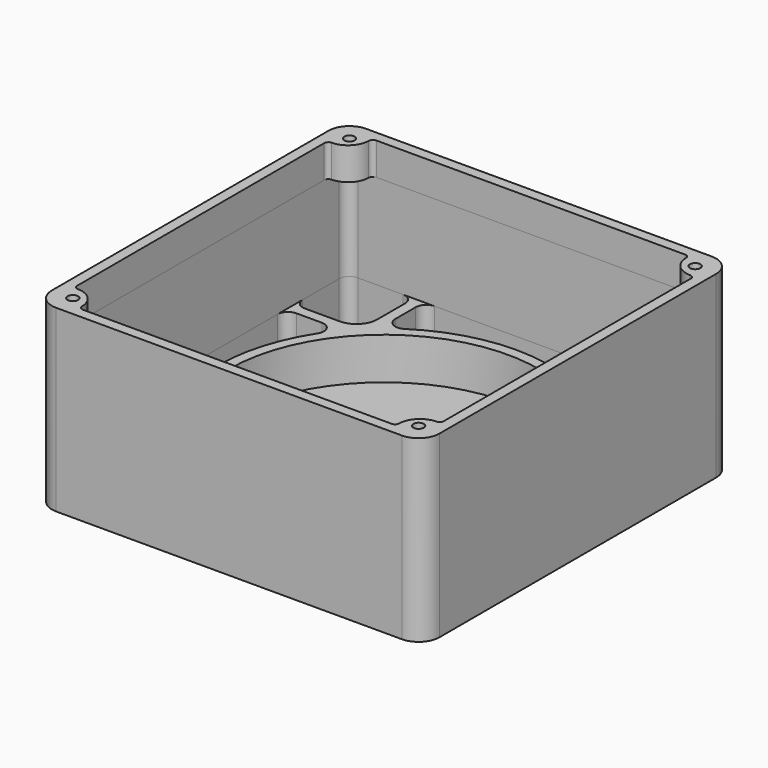
from build123d import *

# Parameters (mm, degrees)
F0_R     = 74
F1_DEPTH = 5
F2_DEPTH = 20
F4_DEPTH = 45.1
F5_R     = 2.5
F6_DEPTH = 15.5


with BuildPart() as f1:
    # F0 (on Top) → F1 (new body)
    with BuildSketch(Plane.XY):
        with BuildLine():
            Line((82.5, 92.5), (-82.5, 92.5))
            ThreePointArc((-82.5, 92.5), (-89.5710678119, 89.5710678119), (-92.5, 82.5))
            Line((-92.5, 82.5), (-92.5, -82.5))
            ThreePointArc((-92.5, -82.5), (-89.5710678119, -89.5710678119), (-82.5, -92.5))
            Line((-82.5, -92.5), (82.5, -92.5))
            ThreePointArc((82.5, -92.5), (89.5710678119, -89.5710678119), (92.5, -82.5))
            Line((92.5, -82.5), (92.5, 82.5))
            ThreePointArc((92.5, 82.5), (89.5710678119, 89.5710678119), (82.5, 92.5))
        make_face()
        with BuildLine():
            ThreePointArc((-82.5, -87.5000036359), (-86.0355364769, -86.0355364769), (-87.5000036359, -82.5))
            Line((-87.5000036359, -82.5), (-87.5000036359, -60.8614357137))
            ThreePointArc((-87.5000036359, -60.8614357137), (-86.0355375418, -57.3259018078), (-82.5000036359, -55.8614357137))
            Line((-82.5000036359, -55.8614357137), (-65.8614357137, -55.8614357137))
            ThreePointArc((-65.8614357137, -55.8614357137), (-58.7903679019, -58.7903679019), (-55.8614357137, -65.8614357137))
            Line((-55.8614357137, -65.8614357137), (-55.8614357137, -82.5000036359))
            ThreePointArc((-55.8614357137, -82.5000036359), (-57.3259018078, -86.0355375418), (-60.8614357137, -87.5000036359))
            Line((-60.8614357137, -87.5000036359), (-82.5, -87.5000036359))
        make_face(mode=Mode.SUBTRACT)
        with BuildLine():
            ThreePointArc((43.1315883498, -66.1866005051), (48.2437416534, -65.9796483274), (50.8614357137, -70.3756258535))
            Line((50.8614357137, -70.3756258535), (50.8614357137, -82.5000036359))
            ThreePointArc((50.8614357137, -82.5000036359), (49.3969696197, -86.0355375418), (45.8614357137, -87.5000036359))
            Line((45.8614357137, -87.5000036359), (-45.8614357137, -87.5000036359))
            ThreePointArc((-45.8614357137, -87.5000036359), (-49.3969696197, -86.0355375418), (-50.8614357137, -82.5000036359))
            Line((-50.8614357137, -82.5000036359), (-50.8614357137, -70.3756258535))
            ThreePointArc((-50.8614357137, -70.3756258535), (-48.2437416534, -65.9796483274), (-43.1315883498, -66.1866005051))
            ThreePointArc((-43.1315883498, -66.1866005051), (0, -79), (43.1315883498, -66.1866005051))
        make_face(mode=Mode.SUBTRACT)
        with BuildLine():
            ThreePointArc((87.5000036359, -82.5), (86.0355364769, -86.0355364769), (82.5, -87.5000036359))
            Line((82.5, -87.5000036359), (60.8614357137, -87.5000036359))
            ThreePointArc((60.8614357137, -87.5000036359), (57.3259018078, -86.0355375418), (55.8614357137, -82.5000036359))
            Line((55.8614357137, -82.5000036359), (55.8614357137, -65.8614357137))
            ThreePointArc((55.8614357137, -65.8614357137), (58.7903679019, -58.7903679019), (65.8614357137, -55.8614357137))
            Line((65.8614357137, -55.8614357137), (82.5000036359, -55.8614357137))
            ThreePointArc((82.5000036359, -55.8614357137), (86.0355375418, -57.3259018078), (87.5000036359, -60.8614357137))
            Line((87.5000036359, -60.8614357137), (87.5000036359, -82.5))
        make_face(mode=Mode.SUBTRACT)
        with BuildLine():
            ThreePointArc((66.1866005051, 43.1315883498), (65.9796483274, 48.2437416534), (70.3756258535, 50.8614357137))
            Line((70.3756258535, 50.8614357137), (82.5000036359, 50.8614357137))
            ThreePointArc((82.5000036359, 50.8614357137), (86.0355375418, 49.3969696197), (87.5000036359, 45.8614357137))
            Line((87.5000036359, 45.8614357137), (87.5000036359, -45.8614357137))
            ThreePointArc((87.5000036359, -45.8614357137), (86.0355375418, -49.3969696197), (82.5000036359, -50.8614357137))
            Line((82.5000036359, -50.8614357137), (70.3756258535, -50.8614357137))
            ThreePointArc((70.3756258535, -50.8614357137), (65.9796483274, -48.2437416534), (66.1866005051, -43.1315883498))
            ThreePointArc((66.1866005051, -43.1315883498), (79, 0), (66.1866005051, 43.1315883498))
        make_face(mode=Mode.SUBTRACT)
        with BuildLine():
            ThreePointArc((-70.3756258535, 50.8614357137), (-65.9796483274, 48.2437416534), (-66.1866005051, 43.1315883498))
            ThreePointArc((-66.1866005051, 43.1315883498), (-79, 0), (-66.1866005051, -43.1315883498))
            ThreePointArc((-66.1866005051, -43.1315883498), (-65.9796483274, -48.2437416534), (-70.3756258535, -50.8614357137))
            Line((-70.3756258535, -50.8614357137), (-82.5000036359, -50.8614357137))
            ThreePointArc((-82.5000036359, -50.8614357137), (-86.0355375418, -49.3969696197), (-87.5000036359, -45.8614357137))
            Line((-87.5000036359, -45.8614357137), (-87.5000036359, 45.8614357137))
            ThreePointArc((-87.5000036359, 45.8614357137), (-86.0355375418, 49.3969696197), (-82.5000036359, 50.8614357137))
            Line((-82.5000036359, 50.8614357137), (-70.3756258535, 50.8614357137))
        make_face(mode=Mode.SUBTRACT)
        with BuildLine():
            ThreePointArc((-87.5000036359, 82.5), (-86.0355364769, 86.0355364769), (-82.5, 87.5000036359))
            Line((-82.5, 87.5000036359), (-60.8614357137, 87.5000036359))
            ThreePointArc((-60.8614357137, 87.5000036359), (-57.3259018078, 86.0355375418), (-55.8614357137, 82.5000036359))
            Line((-55.8614357137, 82.5000036359), (-55.8614357137, 65.8614357137))
            ThreePointArc((-55.8614357137, 65.8614357137), (-58.7903679019, 58.7903679019), (-65.8614357137, 55.8614357137))
            Line((-65.8614357137, 55.8614357137), (-82.5000036359, 55.8614357137))
            ThreePointArc((-82.5000036359, 55.8614357137), (-86.0355375418, 57.3259018078), (-87.5000036359, 60.8614357137))
            Line((-87.5000036359, 60.8614357137), (-87.5000036359, 82.5))
        make_face(mode=Mode.SUBTRACT)
        Circle(F0_R, mode=Mode.SUBTRACT)
        with BuildLine():
            Line((-50.8614357137, 70.3756258535), (-50.8614357137, 82.5000036359))
            ThreePointArc((-50.8614357137, 82.5000036359), (-49.3969696197, 86.0355375418), (-45.8614357137, 87.5000036359))
            Line((-45.8614357137, 87.5000036359), (45.8614357137, 87.5000036359))
            ThreePointArc((45.8614357137, 87.5000036359), (49.3969696197, 86.0355375418), (50.8614357137, 82.5000036359))
            Line((50.8614357137, 82.5000036359), (50.8614357137, 70.3756258535))
            ThreePointArc((50.8614357137, 70.3756258535), (48.2437416534, 65.9796483274), (43.1315883498, 66.1866005051))
            ThreePointArc((43.1315883498, 66.1866005051), (0, 79), (-43.1315883498, 66.1866005051))
            ThreePointArc((-43.1315883498, 66.1866005051), (-48.2437416534, 65.9796483274), (-50.8614357137, 70.3756258535))
        make_face(mode=Mode.SUBTRACT)
        with BuildLine():
            ThreePointArc((82.5, 87.5000036359), (86.0355364769, 86.0355364769), (87.5000036359, 82.5))
            Line((87.5000036359, 82.5), (87.5000036359, 60.8614357137))
            ThreePointArc((87.5000036359, 60.8614357137), (86.0355375418, 57.3259018078), (82.5000036359, 55.8614357137))
            Line((82.5000036359, 55.8614357137), (65.8614357137, 55.8614357137))
            ThreePointArc((65.8614357137, 55.8614357137), (58.7903679019, 58.7903679019), (55.8614357137, 65.8614357137))
            Line((55.8614357137, 65.8614357137), (55.8614357137, 82.5000036359))
            ThreePointArc((55.8614357137, 82.5000036359), (57.3259018078, 86.0355375418), (60.8614357137, 87.5000036359))
            Line((60.8614357137, 87.5000036359), (82.5, 87.5000036359))
        make_face(mode=Mode.SUBTRACT)
        with BuildLine():
            Line((82.5, 92.5), (-82.5, 92.5))
            ThreePointArc((-82.5, 92.5), (-89.5710678119, 89.5710678119), (-92.5, 82.5))
            Line((-92.5, 82.5), (-92.5, -82.5))
            ThreePointArc((-92.5, -82.5), (-89.5710678119, -89.5710678119), (-82.5, -92.5))
            Line((-82.5, -92.5), (82.5, -92.5))
            ThreePointArc((82.5, -92.5), (89.5710678119, -89.5710678119), (92.5, -82.5))
            Line((92.5, -82.5), (92.5, 82.5))
            ThreePointArc((92.5, 82.5), (89.5710678119, 89.5710678119), (82.5, 92.5))
        make_face()
        with BuildLine():
            ThreePointArc((-82.5, -87.5000036359), (-86.0355364769, -86.0355364769), (-87.5000036359, -82.5))
            Line((-87.5000036359, -82.5), (-87.5000036359, -60.8614357137))
            ThreePointArc((-87.5000036359, -60.8614357137), (-86.0355375418, -57.3259018078), (-82.5000036359, -55.8614357137))
            Line((-82.5000036359, -55.8614357137), (-65.8614357137, -55.8614357137))
            ThreePointArc((-65.8614357137, -55.8614357137), (-58.7903679019, -58.7903679019), (-55.8614357137, -65.8614357137))
            Line((-55.8614357137, -65.8614357137), (-55.8614357137, -82.5000036359))
            ThreePointArc((-55.8614357137, -82.5000036359), (-57.3259018078, -86.0355375418), (-60.8614357137, -87.5000036359))
            Line((-60.8614357137, -87.5000036359), (-82.5, -87.5000036359))
        make_face(mode=Mode.SUBTRACT)
        with BuildLine():
            ThreePointArc((43.1315883498, -66.1866005051), (48.2437416534, -65.9796483274), (50.8614357137, -70.3756258535))
            Line((50.8614357137, -70.3756258535), (50.8614357137, -82.5000036359))
            ThreePointArc((50.8614357137, -82.5000036359), (49.3969696197, -86.0355375418), (45.8614357137, -87.5000036359))
            Line((45.8614357137, -87.5000036359), (-45.8614357137, -87.5000036359))
            ThreePointArc((-45.8614357137, -87.5000036359), (-49.3969696197, -86.0355375418), (-50.8614357137, -82.5000036359))
            Line((-50.8614357137, -82.5000036359), (-50.8614357137, -70.3756258535))
            ThreePointArc((-50.8614357137, -70.3756258535), (-48.2437416534, -65.9796483274), (-43.1315883498, -66.1866005051))
            ThreePointArc((-43.1315883498, -66.1866005051), (0, -79), (43.1315883498, -66.1866005051))
        make_face(mode=Mode.SUBTRACT)
        with BuildLine():
            ThreePointArc((87.5000036359, -82.5), (86.0355364769, -86.0355364769), (82.5, -87.5000036359))
            Line((82.5, -87.5000036359), (60.8614357137, -87.5000036359))
            ThreePointArc((60.8614357137, -87.5000036359), (57.3259018078, -86.0355375418), (55.8614357137, -82.5000036359))
            Line((55.8614357137, -82.5000036359), (55.8614357137, -65.8614357137))
            ThreePointArc((55.8614357137, -65.8614357137), (58.7903679019, -58.7903679019), (65.8614357137, -55.8614357137))
            Line((65.8614357137, -55.8614357137), (82.5000036359, -55.8614357137))
            ThreePointArc((82.5000036359, -55.8614357137), (86.0355375418, -57.3259018078), (87.5000036359, -60.8614357137))
            Line((87.5000036359, -60.8614357137), (87.5000036359, -82.5))
        make_face(mode=Mode.SUBTRACT)
        with BuildLine():
            ThreePointArc((66.1866005051, 43.1315883498), (65.9796483274, 48.2437416534), (70.3756258535, 50.8614357137))
            Line((70.3756258535, 50.8614357137), (82.5000036359, 50.8614357137))
            ThreePointArc((82.5000036359, 50.8614357137), (86.0355375418, 49.3969696197), (87.5000036359, 45.8614357137))
            Line((87.5000036359, 45.8614357137), (87.5000036359, -45.8614357137))
            ThreePointArc((87.5000036359, -45.8614357137), (86.0355375418, -49.3969696197), (82.5000036359, -50.8614357137))
            Line((82.5000036359, -50.8614357137), (70.3756258535, -50.8614357137))
            ThreePointArc((70.3756258535, -50.8614357137), (65.9796483274, -48.2437416534), (66.1866005051, -43.1315883498))
            ThreePointArc((66.1866005051, -43.1315883498), (79, 0), (66.1866005051, 43.1315883498))
        make_face(mode=Mode.SUBTRACT)
        with BuildLine():
            ThreePointArc((-70.3756258535, 50.8614357137), (-65.9796483274, 48.2437416534), (-66.1866005051, 43.1315883498))
            ThreePointArc((-66.1866005051, 43.1315883498), (-79, 0), (-66.1866005051, -43.1315883498))
            ThreePointArc((-66.1866005051, -43.1315883498), (-65.9796483274, -48.2437416534), (-70.3756258535, -50.8614357137))
            Line((-70.3756258535, -50.8614357137), (-82.5000036359, -50.8614357137))
            ThreePointArc((-82.5000036359, -50.8614357137), (-86.0355375418, -49.3969696197), (-87.5000036359, -45.8614357137))
            Line((-87.5000036359, -45.8614357137), (-87.5000036359, 45.8614357137))
            ThreePointArc((-87.5000036359, 45.8614357137), (-86.0355375418, 49.3969696197), (-82.5000036359, 50.8614357137))
            Line((-82.5000036359, 50.8614357137), (-70.3756258535, 50.8614357137))
        make_face(mode=Mode.SUBTRACT)
        with BuildLine():
            ThreePointArc((-87.5000036359, 82.5), (-86.0355364769, 86.0355364769), (-82.5, 87.5000036359))
            Line((-82.5, 87.5000036359), (-60.8614357137, 87.5000036359))
            ThreePointArc((-60.8614357137, 87.5000036359), (-57.3259018078, 86.0355375418), (-55.8614357137, 82.5000036359))
            Line((-55.8614357137, 82.5000036359), (-55.8614357137, 65.8614357137))
            ThreePointArc((-55.8614357137, 65.8614357137), (-58.7903679019, 58.7903679019), (-65.8614357137, 55.8614357137))
            Line((-65.8614357137, 55.8614357137), (-82.5000036359, 55.8614357137))
            ThreePointArc((-82.5000036359, 55.8614357137), (-86.0355375418, 57.3259018078), (-87.5000036359, 60.8614357137))
            Line((-87.5000036359, 60.8614357137), (-87.5000036359, 82.5))
        make_face(mode=Mode.SUBTRACT)
        Circle(F0_R, mode=Mode.SUBTRACT)
        with BuildLine():
            Line((-50.8614357137, 70.3756258535), (-50.8614357137, 82.5000036359))
            ThreePointArc((-50.8614357137, 82.5000036359), (-49.3969696197, 86.0355375418), (-45.8614357137, 87.5000036359))
            Line((-45.8614357137, 87.5000036359), (45.8614357137, 87.5000036359))
            ThreePointArc((45.8614357137, 87.5000036359), (49.3969696197, 86.0355375418), (50.8614357137, 82.5000036359))
            Line((50.8614357137, 82.5000036359), (50.8614357137, 70.3756258535))
            ThreePointArc((50.8614357137, 70.3756258535), (48.2437416534, 65.9796483274), (43.1315883498, 66.1866005051))
            ThreePointArc((43.1315883498, 66.1866005051), (0, 79), (-43.1315883498, 66.1866005051))
            ThreePointArc((-43.1315883498, 66.1866005051), (-48.2437416534, 65.9796483274), (-50.8614357137, 70.3756258535))
        make_face(mode=Mode.SUBTRACT)
        with BuildLine():
            ThreePointArc((82.5, 87.5000036359), (86.0355364769, 86.0355364769), (87.5000036359, 82.5))
            Line((87.5000036359, 82.5), (87.5000036359, 60.8614357137))
            ThreePointArc((87.5000036359, 60.8614357137), (86.0355375418, 57.3259018078), (82.5000036359, 55.8614357137))
            Line((82.5000036359, 55.8614357137), (65.8614357137, 55.8614357137))
            ThreePointArc((65.8614357137, 55.8614357137), (58.7903679019, 58.7903679019), (55.8614357137, 65.8614357137))
            Line((55.8614357137, 65.8614357137), (55.8614357137, 82.5000036359))
            ThreePointArc((55.8614357137, 82.5000036359), (57.3259018078, 86.0355375418), (60.8614357137, 87.5000036359))
            Line((60.8614357137, 87.5000036359), (82.5, 87.5000036359))
        make_face(mode=Mode.SUBTRACT)
        Circle(F0_R)
        with BuildLine():
            ThreePointArc((-66.1866005051, -43.1315883498), (-79, 0), (-66.1866005051, 43.1315883498))
            ThreePointArc((-66.1866005051, 43.1315883498), (-65.9796483274, 48.2437416534), (-70.3756258535, 50.8614357137))
            Line((-70.3756258535, 50.8614357137), (-82.5000036359, 50.8614357137))
            ThreePointArc((-82.5000036359, 50.8614357137), (-86.0355375418, 49.3969696197), (-87.5000036359, 45.8614357137))
            Line((-87.5000036359, 45.8614357137), (-87.5000036359, -45.8614357137))
            ThreePointArc((-87.5000036359, -45.8614357137), (-86.0355375418, -49.3969696197), (-82.5000036359, -50.8614357137))
            Line((-82.5000036359, -50.8614357137), (-70.3756258535, -50.8614357137))
            ThreePointArc((-70.3756258535, -50.8614357137), (-65.9796483274, -48.2437416534), (-66.1866005051, -43.1315883498))
        make_face()
        with BuildLine():
            ThreePointArc((-45.8614357137, 87.5000036359), (-49.3969696197, 86.0355375418), (-50.8614357137, 82.5000036359))
            Line((-50.8614357137, 82.5000036359), (-50.8614357137, 70.3756258535))
            ThreePointArc((-50.8614357137, 70.3756258535), (-48.2437416534, 65.9796483274), (-43.1315883498, 66.1866005051))
            ThreePointArc((-43.1315883498, 66.1866005051), (0, 79), (43.1315883498, 66.1866005051))
            ThreePointArc((43.1315883498, 66.1866005051), (48.2437416534, 65.9796483274), (50.8614357137, 70.3756258535))
            Line((50.8614357137, 70.3756258535), (50.8614357137, 82.5000036359))
            ThreePointArc((50.8614357137, 82.5000036359), (49.3969696197, 86.0355375418), (45.8614357137, 87.5000036359))
            Line((45.8614357137, 87.5000036359), (-45.8614357137, 87.5000036359))
        make_face()
        with BuildLine():
            Line((50.8614357137, -82.5000036359), (50.8614357137, -70.3756258535))
            ThreePointArc((50.8614357137, -70.3756258535), (48.2437416534, -65.9796483274), (43.1315883498, -66.1866005051))
            ThreePointArc((43.1315883498, -66.1866005051), (0, -79), (-43.1315883498, -66.1866005051))
            ThreePointArc((-43.1315883498, -66.1866005051), (-48.2437416534, -65.9796483274), (-50.8614357137, -70.3756258535))
            Line((-50.8614357137, -70.3756258535), (-50.8614357137, -82.5000036359))
            ThreePointArc((-50.8614357137, -82.5000036359), (-49.3969696197, -86.0355375418), (-45.8614357137, -87.5000036359))
            Line((-45.8614357137, -87.5000036359), (45.8614357137, -87.5000036359))
            ThreePointArc((45.8614357137, -87.5000036359), (49.3969696197, -86.0355375418), (50.8614357137, -82.5000036359))
        make_face()
        with BuildLine():
            Line((82.5000036359, 50.8614357137), (70.3756258535, 50.8614357137))
            ThreePointArc((70.3756258535, 50.8614357137), (65.9796483274, 48.2437416534), (66.1866005051, 43.1315883498))
            ThreePointArc((66.1866005051, 43.1315883498), (79, 0), (66.1866005051, -43.1315883498))
            ThreePointArc((66.1866005051, -43.1315883498), (65.9796483274, -48.2437416534), (70.3756258535, -50.8614357137))
            Line((70.3756258535, -50.8614357137), (82.5000036359, -50.8614357137))
            ThreePointArc((82.5000036359, -50.8614357137), (86.0355375418, -49.3969696197), (87.5000036359, -45.8614357137))
            Line((87.5000036359, -45.8614357137), (87.5000036359, 45.8614357137))
            ThreePointArc((87.5000036359, 45.8614357137), (86.0355375418, 49.3969696197), (82.5000036359, 50.8614357137))
        make_face()
        with BuildLine():
            Line((-60.8614357137, 87.5000036359), (-82.5, 87.5000036359))
            ThreePointArc((-82.5, 87.5000036359), (-86.0355364769, 86.0355364769), (-87.5000036359, 82.5))
            Line((-87.5000036359, 82.5), (-87.5000036359, 60.8614357137))
            ThreePointArc((-87.5000036359, 60.8614357137), (-86.0355375418, 57.3259018078), (-82.5000036359, 55.8614357137))
            Line((-82.5000036359, 55.8614357137), (-65.8614357137, 55.8614357137))
            ThreePointArc((-65.8614357137, 55.8614357137), (-58.7903679019, 58.7903679019), (-55.8614357137, 65.8614357137))
            Line((-55.8614357137, 65.8614357137), (-55.8614357137, 82.5000036359))
            ThreePointArc((-55.8614357137, 82.5000036359), (-57.3259018078, 86.0355375418), (-60.8614357137, 87.5000036359))
        make_face()
        with BuildLine():
            Line((-87.5000036359, -60.8614357137), (-87.5000036359, -82.5))
            ThreePointArc((-87.5000036359, -82.5), (-86.0355364769, -86.0355364769), (-82.5, -87.5000036359))
            Line((-82.5, -87.5000036359), (-60.8614357137, -87.5000036359))
            ThreePointArc((-60.8614357137, -87.5000036359), (-57.3259018078, -86.0355375418), (-55.8614357137, -82.5000036359))
            Line((-55.8614357137, -82.5000036359), (-55.8614357137, -65.8614357137))
            ThreePointArc((-55.8614357137, -65.8614357137), (-58.7903679019, -58.7903679019), (-65.8614357137, -55.8614357137))
            Line((-65.8614357137, -55.8614357137), (-82.5000036359, -55.8614357137))
            ThreePointArc((-82.5000036359, -55.8614357137), (-86.0355375418, -57.3259018078), (-87.5000036359, -60.8614357137))
        make_face()
        with BuildLine():
            Line((60.8614357137, -87.5000036359), (82.5, -87.5000036359))
            ThreePointArc((82.5, -87.5000036359), (86.0355364769, -86.0355364769), (87.5000036359, -82.5))
            Line((87.5000036359, -82.5), (87.5000036359, -60.8614357137))
            ThreePointArc((87.5000036359, -60.8614357137), (86.0355375418, -57.3259018078), (82.5000036359, -55.8614357137))
            Line((82.5000036359, -55.8614357137), (65.8614357137, -55.8614357137))
            ThreePointArc((65.8614357137, -55.8614357137), (58.7903679019, -58.7903679019), (55.8614357137, -65.8614357137))
            Line((55.8614357137, -65.8614357137), (55.8614357137, -82.5000036359))
            ThreePointArc((55.8614357137, -82.5000036359), (57.3259018078, -86.0355375418), (60.8614357137, -87.5000036359))
        make_face()
        with BuildLine():
            Line((87.5000036359, 60.8614357137), (87.5000036359, 82.5))
            ThreePointArc((87.5000036359, 82.5), (86.0355364769, 86.0355364769), (82.5, 87.5000036359))
            Line((82.5, 87.5000036359), (60.8614357137, 87.5000036359))
            ThreePointArc((60.8614357137, 87.5000036359), (57.3259018078, 86.0355375418), (55.8614357137, 82.5000036359))
            Line((55.8614357137, 82.5000036359), (55.8614357137, 65.8614357137))
            ThreePointArc((55.8614357137, 65.8614357137), (58.7903679019, 58.7903679019), (65.8614357137, 55.8614357137))
            Line((65.8614357137, 55.8614357137), (82.5000036359, 55.8614357137))
            ThreePointArc((82.5000036359, 55.8614357137), (86.0355375418, 57.3259018078), (87.5000036359, 60.8614357137))
        make_face()
    extrude(amount=-F1_DEPTH)

    # F0 (on Top) → F2 (join)
    with BuildSketch(Plane.XY):
        with BuildLine():
            Line((82.5, 92.5), (-82.5, 92.5))
            ThreePointArc((-82.5, 92.5), (-89.5710678119, 89.5710678119), (-92.5, 82.5))
            Line((-92.5, 82.5), (-92.5, -82.5))
            ThreePointArc((-92.5, -82.5), (-89.5710678119, -89.5710678119), (-82.5, -92.5))
            Line((-82.5, -92.5), (82.5, -92.5))
            ThreePointArc((82.5, -92.5), (89.5710678119, -89.5710678119), (92.5, -82.5))
            Line((92.5, -82.5), (92.5, 82.5))
            ThreePointArc((92.5, 82.5), (89.5710678119, 89.5710678119), (82.5, 92.5))
        make_face()
        with BuildLine():
            ThreePointArc((-82.5, -87.5000036359), (-86.0355364769, -86.0355364769), (-87.5000036359, -82.5))
            Line((-87.5000036359, -82.5), (-87.5000036359, -60.8614357137))
            ThreePointArc((-87.5000036359, -60.8614357137), (-86.0355375418, -57.3259018078), (-82.5000036359, -55.8614357137))
            Line((-82.5000036359, -55.8614357137), (-65.8614357137, -55.8614357137))
            ThreePointArc((-65.8614357137, -55.8614357137), (-58.7903679019, -58.7903679019), (-55.8614357137, -65.8614357137))
            Line((-55.8614357137, -65.8614357137), (-55.8614357137, -82.5000036359))
            ThreePointArc((-55.8614357137, -82.5000036359), (-57.3259018078, -86.0355375418), (-60.8614357137, -87.5000036359))
            Line((-60.8614357137, -87.5000036359), (-82.5, -87.5000036359))
        make_face(mode=Mode.SUBTRACT)
        with BuildLine():
            ThreePointArc((43.1315883498, -66.1866005051), (48.2437416534, -65.9796483274), (50.8614357137, -70.3756258535))
            Line((50.8614357137, -70.3756258535), (50.8614357137, -82.5000036359))
            ThreePointArc((50.8614357137, -82.5000036359), (49.3969696197, -86.0355375418), (45.8614357137, -87.5000036359))
            Line((45.8614357137, -87.5000036359), (-45.8614357137, -87.5000036359))
            ThreePointArc((-45.8614357137, -87.5000036359), (-49.3969696197, -86.0355375418), (-50.8614357137, -82.5000036359))
            Line((-50.8614357137, -82.5000036359), (-50.8614357137, -70.3756258535))
            ThreePointArc((-50.8614357137, -70.3756258535), (-48.2437416534, -65.9796483274), (-43.1315883498, -66.1866005051))
            ThreePointArc((-43.1315883498, -66.1866005051), (0, -79), (43.1315883498, -66.1866005051))
        make_face(mode=Mode.SUBTRACT)
        with BuildLine():
            ThreePointArc((87.5000036359, -82.5), (86.0355364769, -86.0355364769), (82.5, -87.5000036359))
            Line((82.5, -87.5000036359), (60.8614357137, -87.5000036359))
            ThreePointArc((60.8614357137, -87.5000036359), (57.3259018078, -86.0355375418), (55.8614357137, -82.5000036359))
            Line((55.8614357137, -82.5000036359), (55.8614357137, -65.8614357137))
            ThreePointArc((55.8614357137, -65.8614357137), (58.7903679019, -58.7903679019), (65.8614357137, -55.8614357137))
            Line((65.8614357137, -55.8614357137), (82.5000036359, -55.8614357137))
            ThreePointArc((82.5000036359, -55.8614357137), (86.0355375418, -57.3259018078), (87.5000036359, -60.8614357137))
            Line((87.5000036359, -60.8614357137), (87.5000036359, -82.5))
        make_face(mode=Mode.SUBTRACT)
        with BuildLine():
            ThreePointArc((66.1866005051, 43.1315883498), (65.9796483274, 48.2437416534), (70.3756258535, 50.8614357137))
            Line((70.3756258535, 50.8614357137), (82.5000036359, 50.8614357137))
            ThreePointArc((82.5000036359, 50.8614357137), (86.0355375418, 49.3969696197), (87.5000036359, 45.8614357137))
            Line((87.5000036359, 45.8614357137), (87.5000036359, -45.8614357137))
            ThreePointArc((87.5000036359, -45.8614357137), (86.0355375418, -49.3969696197), (82.5000036359, -50.8614357137))
            Line((82.5000036359, -50.8614357137), (70.3756258535, -50.8614357137))
            ThreePointArc((70.3756258535, -50.8614357137), (65.9796483274, -48.2437416534), (66.1866005051, -43.1315883498))
            ThreePointArc((66.1866005051, -43.1315883498), (79, 0), (66.1866005051, 43.1315883498))
        make_face(mode=Mode.SUBTRACT)
        with BuildLine():
            ThreePointArc((-70.3756258535, 50.8614357137), (-65.9796483274, 48.2437416534), (-66.1866005051, 43.1315883498))
            ThreePointArc((-66.1866005051, 43.1315883498), (-79, 0), (-66.1866005051, -43.1315883498))
            ThreePointArc((-66.1866005051, -43.1315883498), (-65.9796483274, -48.2437416534), (-70.3756258535, -50.8614357137))
            Line((-70.3756258535, -50.8614357137), (-82.5000036359, -50.8614357137))
            ThreePointArc((-82.5000036359, -50.8614357137), (-86.0355375418, -49.3969696197), (-87.5000036359, -45.8614357137))
            Line((-87.5000036359, -45.8614357137), (-87.5000036359, 45.8614357137))
            ThreePointArc((-87.5000036359, 45.8614357137), (-86.0355375418, 49.3969696197), (-82.5000036359, 50.8614357137))
            Line((-82.5000036359, 50.8614357137), (-70.3756258535, 50.8614357137))
        make_face(mode=Mode.SUBTRACT)
        with BuildLine():
            ThreePointArc((-87.5000036359, 82.5), (-86.0355364769, 86.0355364769), (-82.5, 87.5000036359))
            Line((-82.5, 87.5000036359), (-60.8614357137, 87.5000036359))
            ThreePointArc((-60.8614357137, 87.5000036359), (-57.3259018078, 86.0355375418), (-55.8614357137, 82.5000036359))
            Line((-55.8614357137, 82.5000036359), (-55.8614357137, 65.8614357137))
            ThreePointArc((-55.8614357137, 65.8614357137), (-58.7903679019, 58.7903679019), (-65.8614357137, 55.8614357137))
            Line((-65.8614357137, 55.8614357137), (-82.5000036359, 55.8614357137))
            ThreePointArc((-82.5000036359, 55.8614357137), (-86.0355375418, 57.3259018078), (-87.5000036359, 60.8614357137))
            Line((-87.5000036359, 60.8614357137), (-87.5000036359, 82.5))
        make_face(mode=Mode.SUBTRACT)
        Circle(F0_R, mode=Mode.SUBTRACT)
        with BuildLine():
            Line((-50.8614357137, 70.3756258535), (-50.8614357137, 82.5000036359))
            ThreePointArc((-50.8614357137, 82.5000036359), (-49.3969696197, 86.0355375418), (-45.8614357137, 87.5000036359))
            Line((-45.8614357137, 87.5000036359), (45.8614357137, 87.5000036359))
            ThreePointArc((45.8614357137, 87.5000036359), (49.3969696197, 86.0355375418), (50.8614357137, 82.5000036359))
            Line((50.8614357137, 82.5000036359), (50.8614357137, 70.3756258535))
            ThreePointArc((50.8614357137, 70.3756258535), (48.2437416534, 65.9796483274), (43.1315883498, 66.1866005051))
            ThreePointArc((43.1315883498, 66.1866005051), (0, 79), (-43.1315883498, 66.1866005051))
            ThreePointArc((-43.1315883498, 66.1866005051), (-48.2437416534, 65.9796483274), (-50.8614357137, 70.3756258535))
        make_face(mode=Mode.SUBTRACT)
        with BuildLine():
            ThreePointArc((82.5, 87.5000036359), (86.0355364769, 86.0355364769), (87.5000036359, 82.5))
            Line((87.5000036359, 82.5), (87.5000036359, 60.8614357137))
            ThreePointArc((87.5000036359, 60.8614357137), (86.0355375418, 57.3259018078), (82.5000036359, 55.8614357137))
            Line((82.5000036359, 55.8614357137), (65.8614357137, 55.8614357137))
            ThreePointArc((65.8614357137, 55.8614357137), (58.7903679019, 58.7903679019), (55.8614357137, 65.8614357137))
            Line((55.8614357137, 65.8614357137), (55.8614357137, 82.5000036359))
            ThreePointArc((55.8614357137, 82.5000036359), (57.3259018078, 86.0355375418), (60.8614357137, 87.5000036359))
            Line((60.8614357137, 87.5000036359), (82.5, 87.5000036359))
        make_face(mode=Mode.SUBTRACT)
    extrude(amount=F2_DEPTH)

    # F3 (on face) → F4 (join)
    with BuildSketch(Plane.XY.offset(20)):
        with BuildLine():
            ThreePointArc((-82.5, 92.5), (-89.5710678119, 89.5710678119), (-92.5, 82.5))
            Line((-92.5, 82.5), (-92.5, -82.5))
            ThreePointArc((-92.5, -82.5), (-89.5710678119, -89.5710678119), (-82.5, -92.5))
            Line((-82.5, -92.5), (82.5, -92.5))
            ThreePointArc((82.5, -92.5), (89.5710678119, -89.5710678119), (92.5, -82.5))
            Line((92.5, -82.5), (92.5, 82.5))
            ThreePointArc((92.5, 82.5), (89.5710678119, 89.5710678119), (82.5, 92.5))
            Line((82.5, 92.5), (-82.5, 92.5))
        make_face()
        with BuildLine():
            ThreePointArc((-87.5000021458, 82.5), (-86.0355354232, 86.0355354232), (-82.5, 87.5000021458))
            Line((-82.5, 87.5000021458), (82.5, 87.5000021458))
            ThreePointArc((82.5, 87.5000021458), (86.0355354232, 86.0355354232), (87.5000021458, 82.5))
            Line((87.5000021458, 82.5), (87.5000021458, -82.5))
            ThreePointArc((87.5000021458, -82.5), (86.0355354232, -86.0355354232), (82.5, -87.5000021458))
            Line((82.5, -87.5000021458), (-82.5, -87.5000021458))
            ThreePointArc((-82.5, -87.5000021458), (-86.0355354232, -86.0355354232), (-87.5000021458, -82.5))
            Line((-87.5000021458, -82.5), (-87.5000021458, 82.5))
        make_face(mode=Mode.SUBTRACT)
    extrude(amount=F4_DEPTH)

    # F5 (on face) → F6 (join)
    with BuildSketch(Plane.XY.offset(65.1)):
        with BuildLine():
            Line((82.5, 92.5), (-82.5, 92.5))
            ThreePointArc((-82.5, 92.5), (-89.5710678119, 89.5710678119), (-92.5, 82.5))
            Line((-92.5, 82.5), (-92.5, -82.5))
            ThreePointArc((-92.5, -82.5), (-89.5710678119, -89.5710678119), (-82.5, -92.5))
            Line((-82.5, -92.5), (82.5, -92.5))
            ThreePointArc((82.5, -92.5), (89.5710678119, -89.5710678119), (92.5, -82.5))
            Line((92.5, -82.5), (92.5, 82.5))
            ThreePointArc((92.5, 82.5), (89.5710678119, 89.5710678119), (82.5, 92.5))
        make_face()
        with Locations((-82.5, -82.5)):
            Circle(F5_R, mode=Mode.SUBTRACT)
        with Locations((82.5, -82.5)):
            Circle(F5_R, mode=Mode.SUBTRACT)
        with Locations((-82.5, 82.5)):
            Circle(F5_R, mode=Mode.SUBTRACT)
        with BuildLine():
            ThreePointArc((-75.6819805153, 85.5000036359), (-75.0961940777, 86.9142171983), (-73.6819805153, 87.5000036359))
            Line((-73.6819805153, 87.5000036359), (-60.8614357137, 87.5000036359))
            Line((-60.8614357137, 87.5000036359), (-45.8614357137, 87.5000036359))
            Line((-45.8614357137, 87.5000036359), (45.8614357137, 87.5000036359))
            Line((45.8614357137, 87.5000036359), (60.8614357137, 87.5000036359))
            Line((60.8614357137, 87.5000036359), (73.6819805153, 87.5000036359))
            ThreePointArc((73.6819805153, 87.5000036359), (75.0961940777, 86.9142171983), (75.6819805153, 85.5000036359))
            Line((75.6819805153, 85.5000036359), (75.6819805153, 85.6819805153))
            ThreePointArc((75.6819805153, 85.6819805153), (78.6109127035, 78.6109127035), (85.6819805153, 75.6819805153))
            Line((85.6819805153, 75.6819805153), (85.5000036359, 75.6819805153))
            ThreePointArc((85.5000036359, 75.6819805153), (86.9142171983, 75.0961940777), (87.5000036359, 73.6819805153))
            Line((87.5000036359, 73.6819805153), (87.5000036359, 60.8614357137))
            Line((87.5000036359, 60.8614357137), (87.5000036359, 45.8614357137))
            Line((87.5000036359, 45.8614357137), (87.5000036359, -45.8614357137))
            Line((87.5000036359, -45.8614357137), (87.5000036359, -60.8614357137))
            Line((87.5000036359, -60.8614357137), (87.5000036359, -73.6819805153))
            ThreePointArc((87.5000036359, -73.6819805153), (86.9142171983, -75.0961940777), (85.5000036359, -75.6819805153))
            Line((85.5000036359, -75.6819805153), (85.6819805153, -75.6819805153))
            ThreePointArc((85.6819805153, -75.6819805153), (78.6109127035, -78.6109127035), (75.6819805153, -85.6819805153))
            Line((75.6819805153, -85.6819805153), (75.6819805153, -85.5000036359))
            ThreePointArc((75.6819805153, -85.5000036359), (75.0961940777, -86.9142171983), (73.6819805153, -87.5000036359))
            Line((73.6819805153, -87.5000036359), (60.8614357137, -87.5000036359))
            Line((60.8614357137, -87.5000036359), (45.8614357137, -87.5000036359))
            Line((45.8614357137, -87.5000036359), (-45.8614357137, -87.5000036359))
            Line((-45.8614357137, -87.5000036359), (-60.8614357137, -87.5000036359))
            Line((-60.8614357137, -87.5000036359), (-73.6819805153, -87.5000036359))
            ThreePointArc((-73.6819805153, -87.5000036359), (-75.0961940777, -86.9142171983), (-75.6819805153, -85.5000036359))
            Line((-75.6819805153, -85.5000036359), (-75.6819805153, -85.6819805153))
            ThreePointArc((-75.6819805153, -85.6819805153), (-78.6109127035, -78.6109127035), (-85.6819805153, -75.6819805153))
            Line((-85.6819805153, -75.6819805153), (-85.5000036359, -75.6819805153))
            ThreePointArc((-85.5000036359, -75.6819805153), (-86.9142171983, -75.0961940777), (-87.5000036359, -73.6819805153))
            Line((-87.5000036359, -73.6819805153), (-87.5000036359, -60.8614357137))
            Line((-87.5000036359, -60.8614357137), (-87.5000036359, -45.8614357137))
            Line((-87.5000036359, -45.8614357137), (-87.5000036359, 45.8614357137))
            Line((-87.5000036359, 45.8614357137), (-87.5000036359, 60.8614357137))
            Line((-87.5000036359, 60.8614357137), (-87.5000036359, 73.6819805153))
            ThreePointArc((-87.5000036359, 73.6819805153), (-86.9142171983, 75.0961940777), (-85.5000036359, 75.6819805153))
            Line((-85.5000036359, 75.6819805153), (-85.6819805153, 75.6819805153))
            ThreePointArc((-85.6819805153, 75.6819805153), (-78.6109127035, 78.6109127035), (-75.6819805153, 85.6819805153))
            Line((-75.6819805153, 85.6819805153), (-75.6819805153, 85.5000036359))
        make_face(mode=Mode.SUBTRACT)
        with Locations((82.5, 82.5)):
            Circle(F5_R, mode=Mode.SUBTRACT)
    extrude(amount=F6_DEPTH)


solid = f1.part
